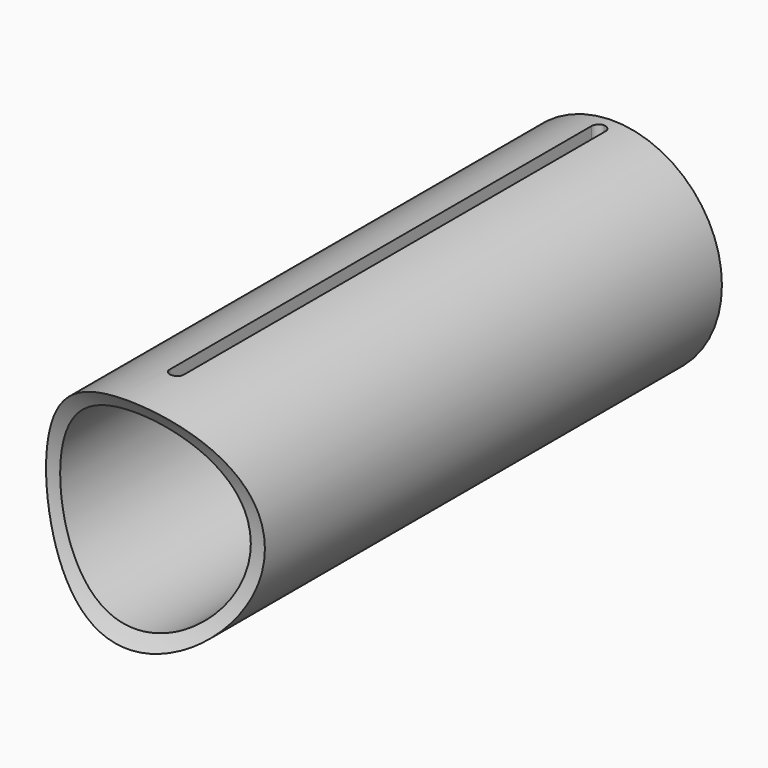
from build123d import *

# Parameters (mm, degrees)
F0_R     = 19.7104
F0_R_2   = 17.1704
F1_DEPTH = 54.6227
F3_DEPTH = 19.7114
F5_DEPTH = 25.4


with BuildPart() as f1:
    # F0 (on Front) → F1 (new body, symmetric)
    with BuildSketch(Plane.XZ):
        Circle(F0_R)
        Circle(F0_R_2, mode=Mode.SUBTRACT)
    extrude(amount=F1_DEPTH, both=True)

    # F2 (on Top) → F3 (cut, through all)
    with BuildSketch(Plane.XY):
        with BuildLine():
            ThreePointArc((0, 52.7177), (-0.898026, 52.345726), (-1.27, 51.4477))
            Line((-1.27, 51.4477), (-1.27, -43.4721))
            ThreePointArc((-1.27, -43.4721), (-0.898026, -44.370126), (0, -44.7421))
            ThreePointArc((0, -44.7421), (0.898026, -44.370126), (1.27, -43.4721))
            Line((1.27, -43.4721), (1.27, 51.4477))
            ThreePointArc((1.27, 51.4477), (0.898026, 52.345726), (0, 52.7177))
        make_face()
    extrude(amount=F3_DEPTH, mode=Mode.SUBTRACT)

    # F4 (on Right) → F5 (cut, symmetric)
    with BuildSketch(Plane.YZ):
        with BuildLine():
            Line((-54.6227, 19.7104), (-54.6227, -19.7104))
            ThreePointArc((-54.6227, -19.7104), (-48.2727, 0), (-54.6227, 19.7104))
        make_face()
    extrude(amount=F5_DEPTH, both=True, mode=Mode.SUBTRACT)


solid = f1.part
